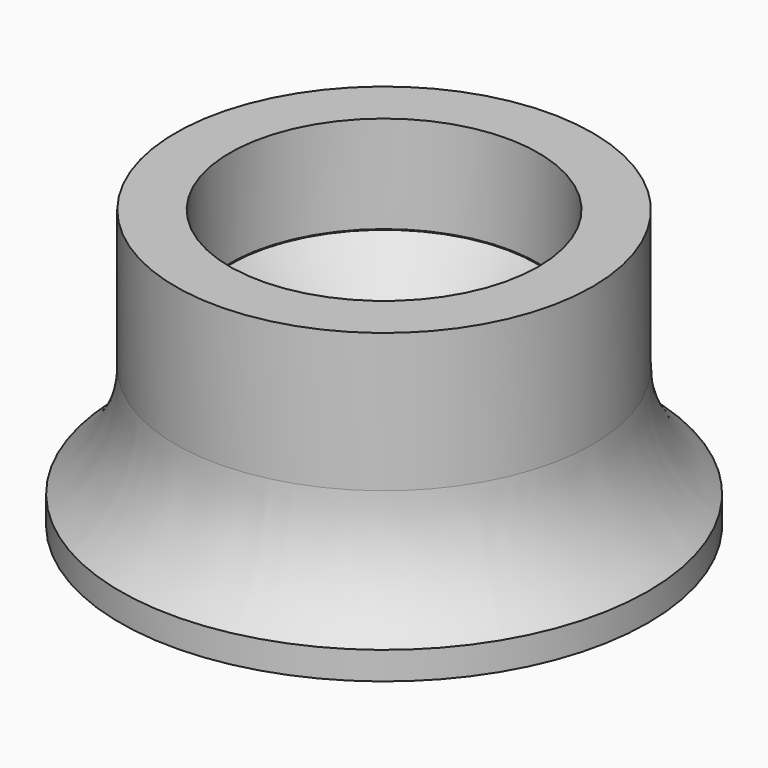
from build123d import *

# Parameters (mm, degrees)
CYLINDER002_R     = 11.1
CYLINDER002_DEPTH = 7
TORUS002_R        = 10
CYLINDER001_R     = 11.1
CYLINDER001_DEPTH = 7
CYLINDER_R        = 15
CYLINDER_DEPTH    = 20
CYLINDER003_R     = 19
CYLINDER003_DEPTH = 10


with BuildPart() as cylinder002:
    # Cylinder002 → Cylinder002 (new body)
    with BuildSketch(Plane.XY.offset(13)):
        Circle(CYLINDER002_R)
    extrude(amount=CYLINDER002_DEPTH)


with BuildPart() as cone:
    # Cone → Cone (revolve)
    with BuildSketch(Plane(origin=(0, 0, 7), x_dir=(1, 0, 0), z_dir=(0, -1, 0))):
        Polygon((0, 0), (11, 0), (0, 11), align=None)
    revolve(axis=Axis((0, 0, 7), (0, 0, 1)))


with BuildPart() as cone001:
    # Cone001 → Cone001 (revolve)
    with BuildSketch(Plane(origin=(0, 0, 13), x_dir=(-1, 0, 0), z_dir=(0, -1, 0))):
        Polygon((0, 0), (11, 0), (0, 11), align=None)
    revolve(axis=Axis((0, 0, 13), (0, 0, -1)))


with BuildPart() as torus002:
    # Torus002 → Torus002 (revolve)
    with BuildSketch(Plane(origin=(0, 0, 10), x_dir=(1, 0, 0), z_dir=(0, -1, 0))):
        with Locations((25, 0)):
            Circle(TORUS002_R)
    revolve(axis=Axis((0, 0, 10), (0, 0, 1)))


with BuildPart() as negativefusion:
    # Cylinder001 → Cylinder001 (new body)
    with BuildSketch(Plane.XY):
        Circle(CYLINDER001_R)
    extrude(amount=CYLINDER001_DEPTH)

    # Fusion: union Cylinder002, Cone, Cone001, Torus002
    add(cylinder002.part)
    add(cone.part)
    add(cone001.part)
    add(torus002.part)


with BuildPart() as cylinder:
    # Cylinder → Cylinder (new body)
    with BuildSketch(Plane.XY):
        Circle(CYLINDER_R)
    extrude(amount=CYLINDER_DEPTH)


with BuildPart() as cut:
    # Cylinder003 → Cylinder003 (new body)
    with BuildSketch(Plane.XY):
        Circle(CYLINDER003_R)
    extrude(amount=CYLINDER003_DEPTH)

    # Fusion001: union Cylinder
    add(cylinder.part)

    # Cut: cut NegativeFusion
    add(negativefusion.part, mode=Mode.SUBTRACT)


solid = cut.part
